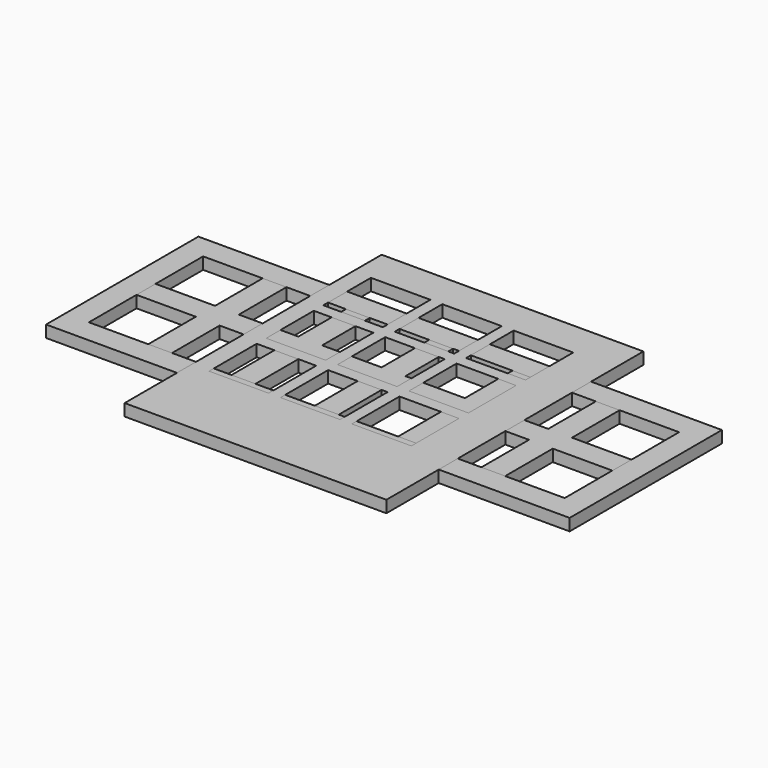
from build123d import *

# Parameters (mm, degrees)
F1_W     = 16
F1_H     = 16
F1_W_2   = 5
F1_H_2   = 5
F4_DEPTH = 1
F0_W     = 16
F0_H     = 16
F0_W_2   = 12
F0_H_2   = 12
F5_DEPTH = 1
F2_W     = 44
F2_H     = 16
F2_W_2   = 5
F2_H_2   = 5
F6_DEPTH = 1
F3_W     = 44
F3_H     = 16
F3_W_2   = 40
F3_H_2   = 12
F7_DEPTH = 1
F8_W     = 22
F8_H     = 27
F8_W_2   = 5
F8_H_2   = 5
F9_DEPTH = 1


with BuildPart() as f4:
    # F1 (on Top) → F4 (new body)
    with BuildSketch(Plane.XY):
        Rectangle(F1_W, F1_H)
        with Locations((-3.5, -3.5)):
            Rectangle(F1_W_2, F1_H_2, mode=Mode.SUBTRACT)
        with Locations((3.5, -3.5)):
            Rectangle(F1_W_2, F1_H_2, mode=Mode.SUBTRACT)
        with Locations((-3.5, 3.5)):
            Rectangle(F1_W_2, F1_H_2, mode=Mode.SUBTRACT)
        with Locations((3.5, 3.5)):
            Rectangle(F1_W_2, F1_H_2, mode=Mode.SUBTRACT)
    extrude(amount=F4_DEPTH)


with BuildPart() as f5:
    # F0 (on Top) → F5 (new body)
    with BuildSketch(Plane.XY):
        Rectangle(F0_W, F0_H)
        Rectangle(F0_W_2, F0_H_2, mode=Mode.SUBTRACT)
    extrude(amount=F5_DEPTH)


with BuildPart() as f6:
    # F2 (on Top) → F6 (new body)
    with BuildSketch(Plane.XY):
        Rectangle(F2_W, F2_H)
        with Locations((-17.514802, -3.499984)):
            Rectangle(F2_W_2, F2_H_2, mode=Mode.SUBTRACT)
        with Locations((-10.514802, -3.499984)):
            Rectangle(F2_W_2, F2_H_2, mode=Mode.SUBTRACT)
        with Locations((-3.514802, -3.499984)):
            Rectangle(F2_W_2, F2_H_2, mode=Mode.SUBTRACT)
        with Locations((3.485198, -3.499984)):
            Rectangle(F2_W_2, F2_H_2, mode=Mode.SUBTRACT)
        with Locations((10.485198, -3.499984)):
            Rectangle(F2_W_2, F2_H_2, mode=Mode.SUBTRACT)
        with Locations((17.485198, -3.499984)):
            Rectangle(F2_W_2, F2_H_2, mode=Mode.SUBTRACT)
        with Locations((-17.5, 3.5)):
            Rectangle(F2_W_2, F2_H_2, mode=Mode.SUBTRACT)
        with Locations((-10.5, 3.5)):
            Rectangle(F2_W_2, F2_H_2, mode=Mode.SUBTRACT)
        with Locations((-3.5, 3.5)):
            Rectangle(F2_W_2, F2_H_2, mode=Mode.SUBTRACT)
        with Locations((3.5, 3.5)):
            Rectangle(F2_W_2, F2_H_2, mode=Mode.SUBTRACT)
        with Locations((10.5, 3.5)):
            Rectangle(F2_W_2, F2_H_2, mode=Mode.SUBTRACT)
        with Locations((17.5, 3.5)):
            Rectangle(F2_W_2, F2_H_2, mode=Mode.SUBTRACT)
    extrude(amount=F6_DEPTH)


with BuildPart() as f7:
    # F3 (on Top) → F7 (new body)
    with BuildSketch(Plane.XY):
        Rectangle(F3_W, F3_H)
        Rectangle(F3_W_2, F3_H_2, mode=Mode.SUBTRACT)
    extrude(amount=F7_DEPTH)


with BuildPart() as f9:
    # F8 (on Top) → F9 (new body)
    with BuildSketch(Plane.XY):
        Rectangle(F8_W, F8_H)
        with Locations((-7, -4)):
            Rectangle(F8_W_2, F8_H_2, mode=Mode.SUBTRACT)
        with Locations((-1, -4)):
            Rectangle(F8_W_2, F8_H_2, mode=Mode.SUBTRACT)
        with Locations((5, -4)):
            Rectangle(F8_W_2, F8_H_2, mode=Mode.SUBTRACT)
        with Locations((-7, 2)):
            Rectangle(F8_W_2, F8_H_2, mode=Mode.SUBTRACT)
        with Locations((-1, 2)):
            Rectangle(F8_W_2, F8_H_2, mode=Mode.SUBTRACT)
        with Locations((-7, 8)):
            Rectangle(F8_W_2, F8_H_2, mode=Mode.SUBTRACT)
        with Locations((-1, 8)):
            Rectangle(F8_W_2, F8_H_2, mode=Mode.SUBTRACT)
        with Locations((5, 2)):
            Rectangle(F8_W_2, F8_H_2, mode=Mode.SUBTRACT)
        with Locations((5, 8)):
            Rectangle(F8_W_2, F8_H_2, mode=Mode.SUBTRACT)
    extrude(amount=F9_DEPTH)


solid = Compound([f4.part, f5.part, f6.part, f7.part, f9.part])
